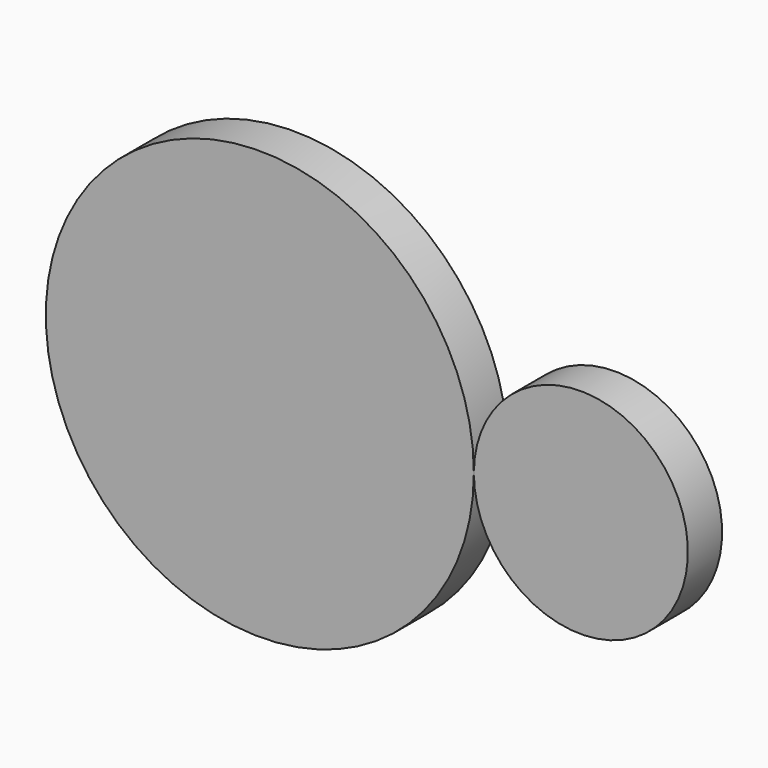
from build123d import *

# Parameters (mm, degrees)
F0_R     = 20
F1_DEPTH = 4


with BuildPart() as f1:
    # F0 (on Front) → F1 (new body)
    with BuildSketch(Plane.XZ):
        with Locations((-49.500749, 162.556836)):
            Circle(F0_R)
        with BuildLine():
            ThreePointArc((-9.500749, 162.556836), (-19.500749, 172.556836), (-29.500749, 162.556836))
            ThreePointArc((-29.500749, 162.556836), (-19.500749, 152.556836), (-9.500749, 162.556836))
        make_face()
    extrude(amount=F1_DEPTH)


solid = f1.part
